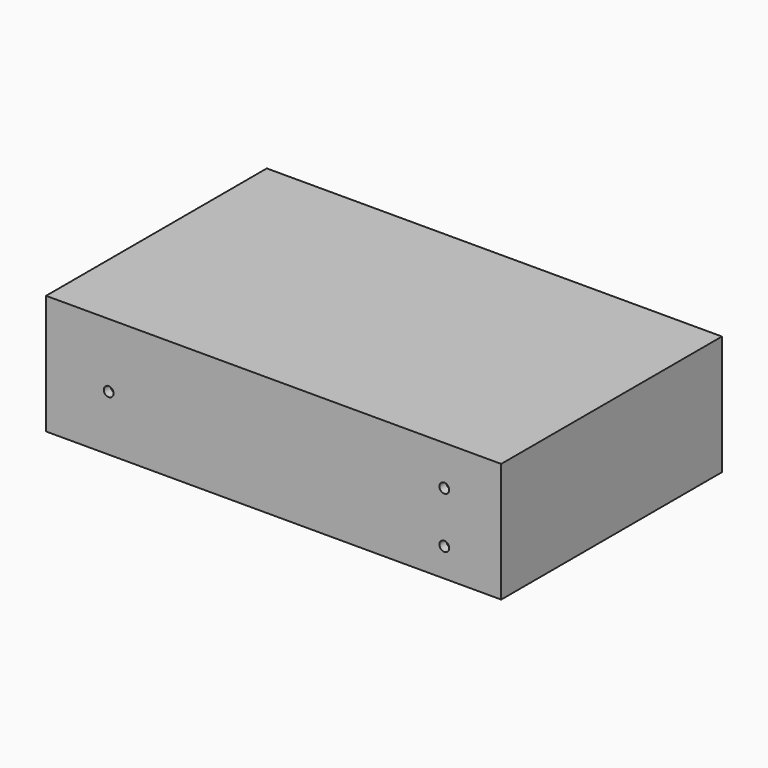
from build123d import *

# Parameters (mm, degrees)
F0_W     = 160
F0_H     = 97
F1_DEPTH = 42
F2_R     = 1.725
F3_DEPTH = 3
F4_R     = 1.725
F5_DEPTH = 3


with BuildPart() as f1:
    # F0 (on Top) → F1 (new body)
    with BuildSketch(Plane.XY):
        with Locations((80, 48.5)):
            Rectangle(F0_W, F0_H)
    extrude(amount=F1_DEPTH)

    # F2 (on face) → F3 (cut)
    with BuildSketch(Plane.XZ):
        with Locations((140, 10)):
            Circle(F2_R)
        with Locations((140, 28)):
            Circle(F2_R)
        with Locations((22, 19.5)):
            Circle(F2_R)
    extrude(amount=-F3_DEPTH, mode=Mode.SUBTRACT)

    # F4 (on face) → F5 (cut)
    with BuildSketch(Plane(origin=(0, 0, 0), x_dir=(1, 0, 0), z_dir=(0, 0, -1))):
        with Locations((4.8, -91.8)):
            Circle(F4_R)
        with Locations((24, -32.5)):
            Circle(F4_R)
        with Locations((148.5, -91.8)):
            Circle(F4_R)
        with Locations((102, -32.5)):
            Circle(F4_R)
    extrude(amount=-F5_DEPTH, mode=Mode.SUBTRACT)


solid = f1.part
